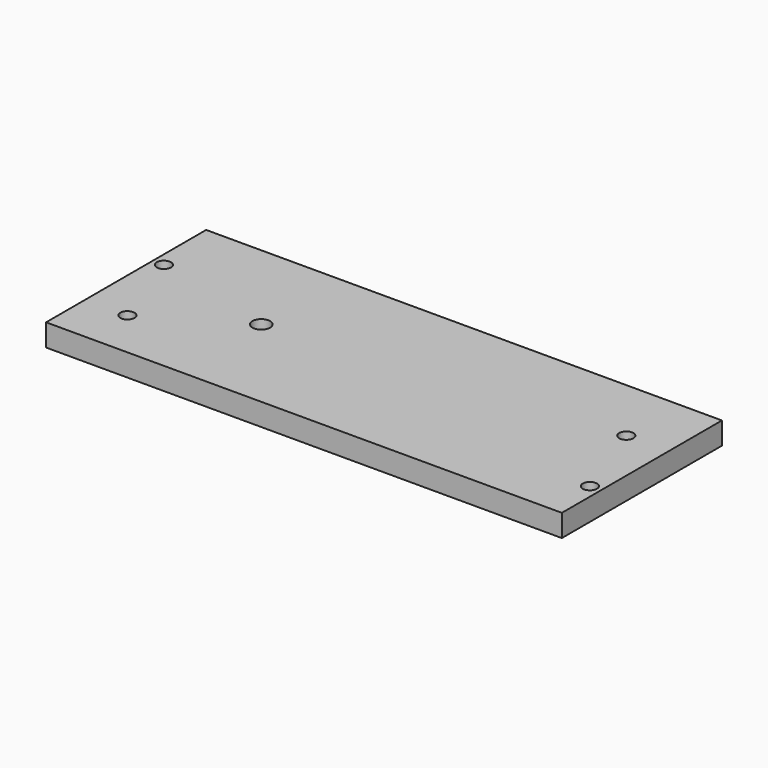
from build123d import *

# Parameters (mm, degrees)
CYLINDER093_R           = 2
CYLINDER093_DEPTH       = 30
CYLINDER019_R           = 1.6
CYLINDER019_DEPTH       = 40
CYLINDER019_PITCH_ANGLE = 90
CYLINDER018_R           = 1.6
CYLINDER018_DEPTH       = 40
CYLINDER018_PITCH_ANGLE = 90
CYLINDER017_R           = 1.6
CYLINDER017_DEPTH       = 40
CYLINDER016_R           = 1.6
CYLINDER016_DEPTH       = 70
CYLINDER016_ROLL_ANGLE  = 90
CYLINDER015_R           = 1.6
CYLINDER015_DEPTH       = 40
BOX013_W                = 116
BOX013_H                = 45
BOX013_DEPTH            = 5


with BuildPart() as cylinder371:
    # Cylinder093 → Cylinder093 (new body)
    with BuildSketch(Plane.XY.offset(128)):
        Circle(CYLINDER093_R)
    extrude(amount=CYLINDER093_DEPTH)


with BuildPart() as cylinder100:
    # Cylinder019 → Cylinder019 (new body)
    with BuildSketch(Plane.XY):
        Circle(CYLINDER019_R)
    extrude(amount=CYLINDER019_DEPTH)


with BuildPart() as cylinder100_1:
    # Cylinder019 pitch: moved
    add(cylinder100.part.rotate(Axis((0, 0, 0), (0, 1, 0)), CYLINDER019_PITCH_ANGLE))


with BuildPart() as cylinder100_2:
    # Cylinder019 placement: moved
    add(cylinder100_1.part.moved(Location((-40, 12, 9.5))))


with BuildPart() as fusion011:
    # Cylinder018 → Cylinder018 (new body)
    with BuildSketch(Plane.XY):
        Circle(CYLINDER018_R)
    extrude(amount=CYLINDER018_DEPTH)


with BuildPart() as fusion011_1:
    # Cylinder018 pitch: moved
    add(fusion011.part.rotate(Axis((0, 0, 0), (0, 1, 0)), CYLINDER018_PITCH_ANGLE))


with BuildPart() as fusion011_2:
    # Cylinder018 placement: moved
    add(fusion011_1.part.moved(Location((-40, -7, 2.5))))

    # Fusion011: union Cylinder100
    add(cylinder100_2.part)


with BuildPart() as fusion012:
    # Cylinder017 → Cylinder017 (new body)
    with BuildSketch(Plane(origin=(-27.5, 7, -15), x_dir=(1, 0, 0), z_dir=(0, 0, 1))):
        Circle(CYLINDER017_R)
    extrude(amount=CYLINDER017_DEPTH)

    # Fusion012: union Fusion011
    add(fusion011_2.part)


with BuildPart() as fusion013:
    # Cylinder016 → Cylinder016 (new body)
    with BuildSketch(Plane.XY):
        Circle(CYLINDER016_R)
    extrude(amount=CYLINDER016_DEPTH)


with BuildPart() as fusion013_1:
    # Cylinder016 roll: moved
    add(fusion013.part.rotate(Axis((0, 0, 0), (1, 0, 0)), CYLINDER016_ROLL_ANGLE))


with BuildPart() as fusion013_2:
    # Cylinder016 placement: moved
    add(fusion013_1.part.moved(Location((-24, 39, 6))))

    # Fusion013: union Fusion012
    add(fusion012.part)


with BuildPart() as cylinder008:
    # Cylinder015 → Cylinder015 (new body)
    with BuildSketch(Plane(origin=(-20.5, -12, -15), x_dir=(1, 0, 0), z_dir=(0, 0, 1))):
        Circle(CYLINDER015_R)
    extrude(amount=CYLINDER015_DEPTH)


with BuildPart() as face_corner_holes014:
    # Fusion028 base: copy of Cylinder008
    add(cylinder008.part)

    # Fusion028: union Fusion013
    add(fusion013_2.part)


with BuildPart() as face_corner_holes014_1:
    # Fusion028 placement: moved
    add(face_corner_holes014.part.moved(Location((104, 0, 132))))


with BuildPart() as face_corner_holes002:
    # Fusion016 base: copy of Cylinder008
    add(cylinder008.part)

    # Fusion016: union Fusion013
    add(fusion013_2.part)


with BuildPart() as face_corner_holes002_1:
    # Fusion016 placement: moved
    add(face_corner_holes002.part.moved(Location((0, 0, 132))))


with BuildPart() as right_a:
    # Box013 → Box013 (new body)
    with BuildSketch(Plane(origin=(-30, -23, 144), x_dir=(1, 0, 0), z_dir=(0, 0, 1))):
        with Locations((58, 22.5)):
            Rectangle(BOX013_W, BOX013_H)
    extrude(amount=BOX013_DEPTH)

    # Cut020: cut face-corner-holes002
    add(face_corner_holes002_1.part, mode=Mode.SUBTRACT)

    # Cut025: cut face-corner-holes014
    add(face_corner_holes014_1.part, mode=Mode.SUBTRACT)

    # Cut053: cut Cylinder371
    add(cylinder371.part, mode=Mode.SUBTRACT)


solid = right_a.part
